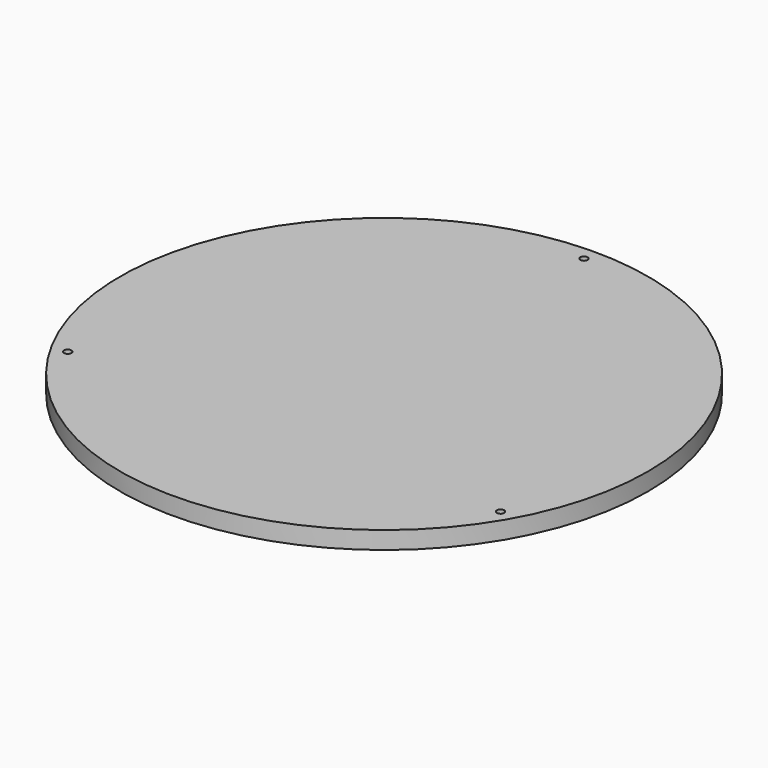
from build123d import *

# Parameters (mm, degrees)
F0_R     = 150
F0_R_2   = 3.75
F0_R_3   = 2.1
F1_DEPTH = 10
F2_DEPTH = 4.2


with BuildPart() as f1:
    # F0 (on Top) → F1 (new body)
    with BuildSketch(Plane.XY):
        Circle(F0_R)
        with Locations((-122.975607, -71)):
            Circle(F0_R_2, mode=Mode.SUBTRACT)
        with Locations((122.975607, -71)):
            Circle(F0_R_2, mode=Mode.SUBTRACT)
        with Locations((0, 142)):
            Circle(F0_R_2, mode=Mode.SUBTRACT)
        with Locations((0, 142)):
            Circle(F0_R_2)
        with Locations((0, 142)):
            Circle(F0_R_3, mode=Mode.SUBTRACT)
        with Locations((122.975607, -71)):
            Circle(F0_R_2)
        with Locations((122.975607, -71)):
            Circle(F0_R_3, mode=Mode.SUBTRACT)
        with Locations((-122.975607, -71)):
            Circle(F0_R_2)
        with Locations((-122.975607, -71)):
            Circle(F0_R_3, mode=Mode.SUBTRACT)
    extrude(amount=F1_DEPTH)

    # F0 (on Top) → F2 (cut)
    with BuildSketch(Plane.XY):
        with Locations((-122.975607, -71)):
            Circle(F0_R_2)
        with Locations((-122.975607, -71)):
            Circle(F0_R_3, mode=Mode.SUBTRACT)
        with Locations((122.975607, -71)):
            Circle(F0_R_2)
        with Locations((122.975607, -71)):
            Circle(F0_R_3, mode=Mode.SUBTRACT)
        with Locations((0, 142)):
            Circle(F0_R_2)
        with Locations((0, 142)):
            Circle(F0_R_3, mode=Mode.SUBTRACT)
    extrude(amount=F2_DEPTH, mode=Mode.SUBTRACT)


solid = f1.part
